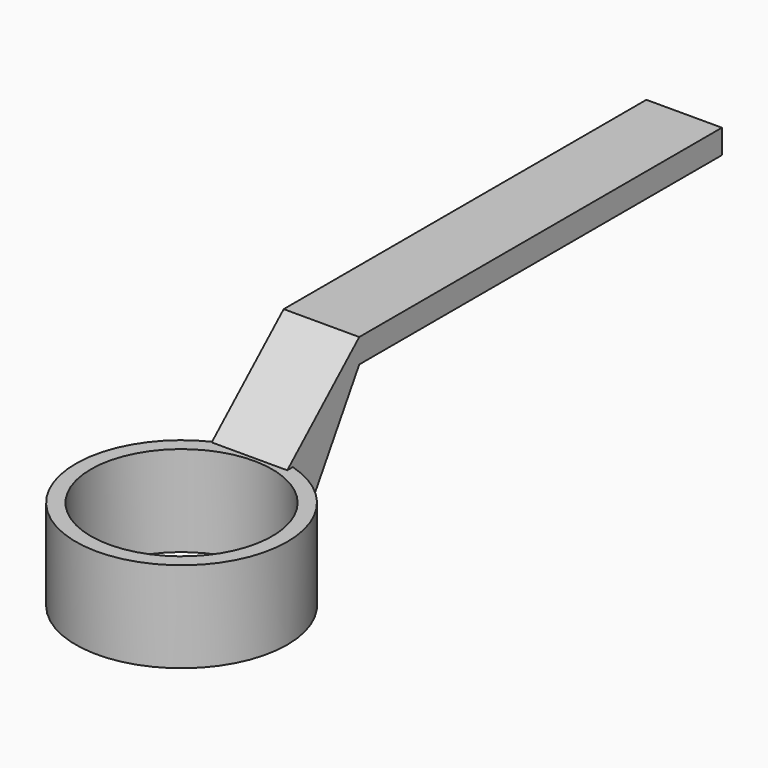
from build123d import *

# Parameters (mm, degrees)
F0_R     = 35
F1_DEPTH = 30
F4_DEPTH = 25
F6_D     = 60


with BuildPart() as f1:
    # F0 (on Top) → F1 (new body)
    with BuildSketch(Plane.XY):
        Circle(F0_R)
    extrude(amount=F1_DEPTH)

    # F3 (on offset) → F4 (join)
    with BuildSketch(Plane.YZ.offset(10)):
        Polygon((31.227464, 30), (31.227464, 0), (60.99254, 48.721532), (210.99254, 48.721532), (210.99254, 56.721532), (60.99254, 56.721532), align=None)
    extrude(amount=-F4_DEPTH)

    # F6 (through all)
    with Locations(Plane.XY.offset(30)):
        with Locations((0, 0)):
            Hole(F6_D / 2)


solid = f1.part
